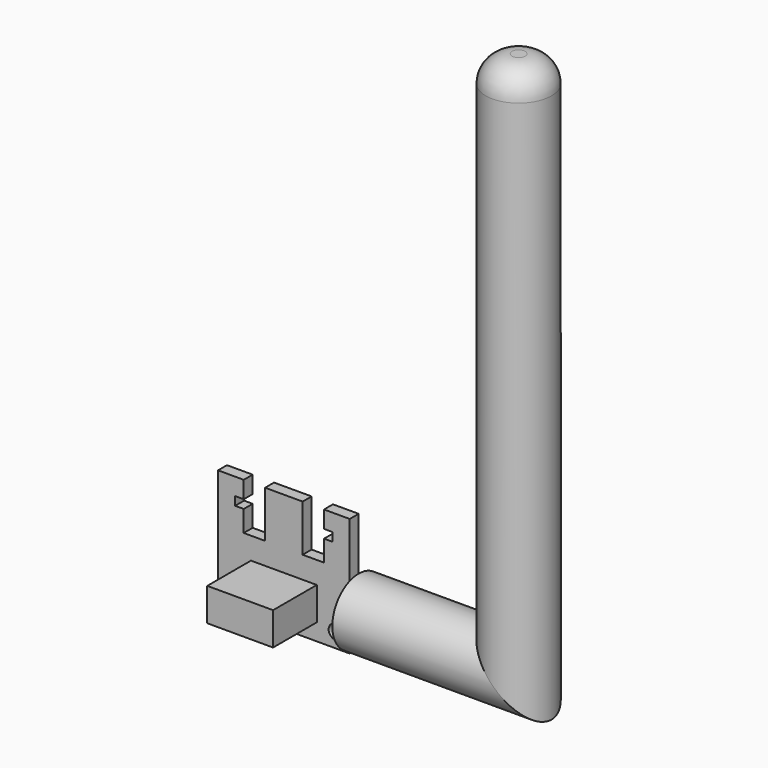
from build123d import *

# Parameters (mm, degrees)
F1_R     = 5
F3_R     = 4
F4_R     = 2.84
F5_DEPTH = 5.66
F6_R     = 1.1
F6_W     = 10
F6_H     = 5
F7_DEPTH = 1.7
F8_DEPTH = 10


with BuildPart() as f2:
    # F2: sweep along a path in F0
    with BuildLine(Plane.XZ) as f2_path:
        Line((0, 0), (29.3, 0))
        Line((29.3, 0), (29.3, 87.42))
    # F1 (on Right) → F2 (sweep)
    with BuildSketch(Plane.YZ):
        with Locations((0, 5)):
            Circle(F1_R)
    sweep(path=f2_path.line, transition=Transition.RIGHT)

    # F3
    f3_edges = [f2.edges().sort_by_distance(p)[0] for p in [
        (24.3, -5, 87.42),
    ]]
    fillet(f3_edges, radius=F3_R)

    # F4 (on face) → F5 (cut)
    with BuildSketch(Plane(origin=(0, 0, 0), x_dir=(0, -1, 0), z_dir=(-1, 0, 0))):
        with Locations((0, 5)):
            Circle(F4_R)
    extrude(amount=-F5_DEPTH, mode=Mode.SUBTRACT)


with BuildPart() as f7:
    # F6 (on Front) → F7 (new body)
    with BuildSketch(Plane.XZ):
        Polygon((-20, 18), (-20, 0), (0, 0), (0, 18), (-3.9, 18), (-3.9, 15.4), (-2.6, 15.4), (-2.6, 14.1), (-3.9, 14.1), (-3.9, 10.89), (-7.15, 10.89), (-7.15, 18), (-12.85, 18), (-12.85, 10.89), (-16.1, 10.89), (-16.1, 14.1), (-17.4, 14.1), (-17.4, 15.4), (-16.1, 15.4), (-16.1, 18), align=None)
        with Locations((-17.9, 2.2)):
            Circle(F6_R, mode=Mode.SUBTRACT)
        with Locations((-2.1, 2.2)):
            Circle(F6_R, mode=Mode.SUBTRACT)
        with Locations((-10, 5.05)):
            Rectangle(F6_W, F6_H, mode=Mode.SUBTRACT)
    extrude(amount=F7_DEPTH)

    # F6 (on Front) → F8 (join)
    with BuildSketch(Plane.XZ):
        with Locations((-10, 5.05)):
            Rectangle(F6_W, F6_H)
    extrude(amount=F8_DEPTH)


solid = Compound([f2.part, f7.part])
